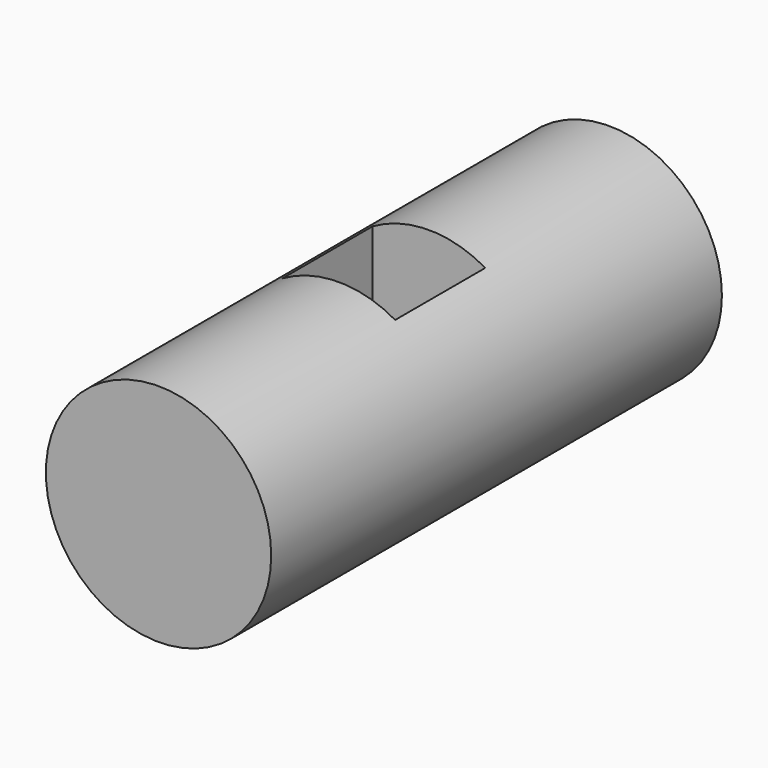
from build123d import *

# Parameters (mm, degrees)
F0_R     = 25.4
F1_DEPTH = 63.5
F2_W     = 25.4
F2_H     = 25.4
F3_DEPTH = 33.02


with BuildPart() as f1:
    # F0 (on Front) → F1 (new body, symmetric)
    with BuildSketch(Plane.XZ):
        Circle(F0_R)
    extrude(amount=F1_DEPTH, both=True)

    # F2 (on Top) → F3 (cut, symmetric)
    with BuildSketch(Plane.XY):
        Rectangle(F2_W, F2_H)
    extrude(amount=F3_DEPTH, both=True, mode=Mode.SUBTRACT)


solid = f1.part
